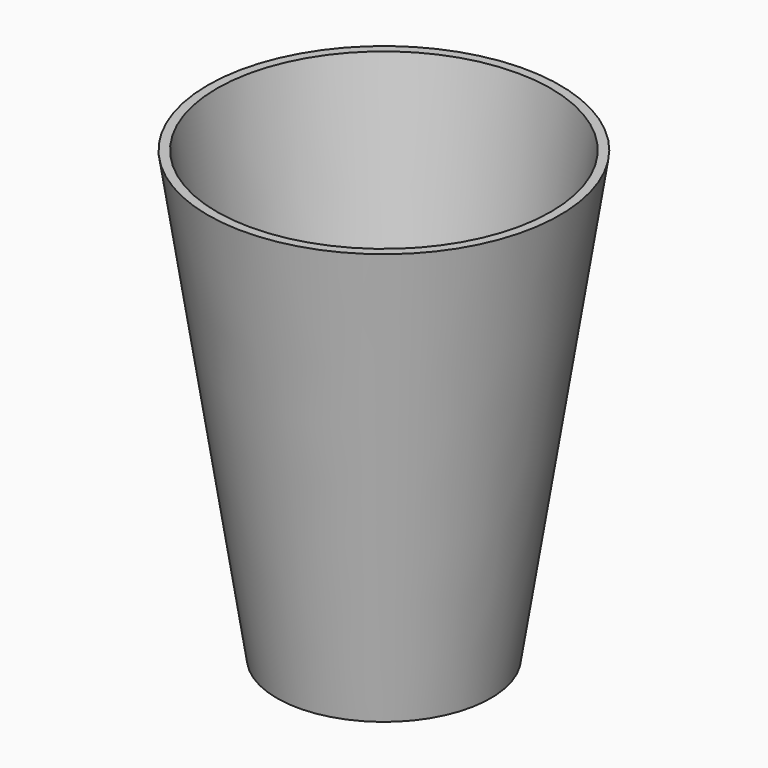
from build123d import *

# Parameters (mm, degrees)
F2_T     = -3.175
F4_DEPTH = 1.5875


with BuildPart() as f1:
    # F0 (on Front) → F1 (revolve)
    with BuildSketch(Plane.XZ):
        Polygon((-38.1, 0), (0, 0), (0, 159.4304591417), (-62.6866146922, 159.4304591417), align=None)
    revolve(axis=Axis((0, 0, 79.7152295709), (0, 0, -1)))

    # F2
    f2_openings = [f1.faces().sort_by_distance(p)[0] for p in [
        (0, 0, 159.430459),
    ]]
    offset(amount=F2_T, openings=f2_openings)

    # F3 (on Top) → F4 (cut)
    with BuildSketch(Plane.XY):
        with BuildLine():
            add(Edge.make_bspline(
                [(-19.4014832377, 4.2113135569), (-18.7531898055, 5.4777192579), (-17.4014889021, 8.1181929151), (-12.5510655032, 10.5482010959), (-9.3620261804, 10.190664987), (-7.7923568897, 10.0146830082)],
                knots=[0, 0, 0, 0, 0.318803598, 0.6647099753, 1, 1, 1, 1], degree=3))
            add(Edge.make_bspline(
                [(-7.7923568897, 10.0146830082), (-7.9133892647, 7.7789314659), (-8.1642059751, 3.1457591674), (-9.4585773774, -4.4941025574), (-12.891941134, -12.5420703822), (-17.5861383279, -16.7926160144), (-17.5102852366, -20.7671425935), (-16.4796150747, -22.6430773976), (-14.8305156939, -23.8501410331), (-12.9807029748, -24.2714401619), (-10.5467395482, -23.8279743211), (-8.4582492729, -22.2675558352), (-6.1108322547, -16.5517126321), (-5.438963665, -7.3460077185), (-4.4365950396, 3.6569436415), (-3.853734117, 10.0549794734)],
                knots=[0, 0, 0, 0, 0.0880409595, 0.1824482404, 0.2824178019, 0.3656698949, 0.4286344499, 0.4769656385, 0.5238340761, 0.5699241603, 0.6214860687, 0.6740104117, 0.754350396, 0.8571587825, 1, 1, 1, 1], degree=3))
            add(Edge.make_bspline(
                [(-3.853734117, 10.0549794734), (-0.6908265253, 10.0549794734), (2.4720810664, 10.0549794734), (5.6349886581, 10.0549794734)],
                knots=[0, 0, 0, 0, 9.4887227751, 9.4887227751, 9.4887227751, 9.4887227751], degree=3))
            add(Edge.make_bspline(
                [(5.6349886581, 10.0549794734), (5.1179656529, 4.2988011186), (4.1855989826, -6.0815277883), (2.2418363662, -17.133074814), (6.1993286809, -22.8137367886), (9.6258734077, -24.3046887574), (12.8862283177, -24.0371426728), (15.1074594417, -23.8919320147), (19.0561707704, -20.2535401147), (20.3748776318, -17.2807457035), (21.0926160049, -12.3105993929), (21.1163228045, -12.2759174556)],
                knots=[0, 0, 0, 0, 0.1918449829, 0.3459611394, 0.461688353, 0.5500217309, 0.6322196488, 0.7017930408, 0.8051710251, 0.9007838703, 0.9983000374, 0.9983000374, 0.9983000374, 0.9983000374], degree=3))
            add(Edge.make_bspline(
                [(21.1163228045, -12.2759174556), (20.3916681002, -12.2759174556), (19.6672989739, -12.2759174556), (19.5691268891, -12.2759174556)],
                knots=[0.0004126536, 0.0004126536, 0.0004126536, 0.0004126536, 0.9048401528, 0.9048401528, 0.9048401528, 0.9048401528], degree=3))
            add(Edge.make_bspline(
                [(19.5691268891, -12.2759174556), (19.418191644, -13.2654511474), (19.1064893287, -15.3089761217), (16.123951194, -17.5847200897), (13.3802481357, -17.4290693932), (9.9866685411, -15.0695037941), (9.2467731261, -8.3072976675), (10.5787837329, 1.0040330336), (11.1519221552, 7.0625804664), (11.4350030199, 10.0549794734)],
                knots=[0, 0, 0, 0, 0.1099798537, 0.2271237245, 0.3287414252, 0.4492038413, 0.610060749, 0.8074036986, 1, 1, 1, 1], degree=3))
            add(Edge.make_bspline(
                [(11.4350030199, 10.0549794734), (14.6624402454, 10.0549794734), (17.8898774708, 10.0549794734), (21.1173146963, 10.0549794734)],
                knots=[0, 0, 0, 0, 9.6823116764, 9.6823116764, 9.6823116764, 9.6823116764], degree=3))
            add(Edge.make_bspline(
                [(21.1173146963, 10.0549794734), (21.1173146963, 12.1795317779), (21.1173146963, 14.3040840824), (21.1173146963, 16.428636387)],
                knots=[0, 0, 0, 0, 6.3736569136, 6.3736569136, 6.3736569136, 6.3736569136], degree=3))
            add(Edge.make_bspline(
                [(21.1173146963, 16.428636387), (10.6683538258, 16.5466721162), (-5.2496723323, 16.7264886403), (-13.2144965635, 15.9136449775), (-17.6553820034, 13.2925715926), (-19.0221552591, 8.7173019267), (-20.1733487063, 5.7306348498), (-20.7589622587, 4.2113135569)],
                knots=[0, 0, 0, 0, 0.3620561729, 0.551559117, 0.6983516808, 0.8465511212, 1, 1, 1, 1], degree=3))
            add(Edge.make_bspline(
                [(-20.7589622587, 4.2113135569), (-20.3064692517, 4.2113135569), (-19.8539762447, 4.2113135569), (-19.4014832377, 4.2113135569)],
                knots=[0, 0, 0, 0, 1.357479021, 1.357479021, 1.357479021, 1.357479021], degree=3))
        make_face()
    extrude(amount=F4_DEPTH, mode=Mode.SUBTRACT)


solid = f1.part
